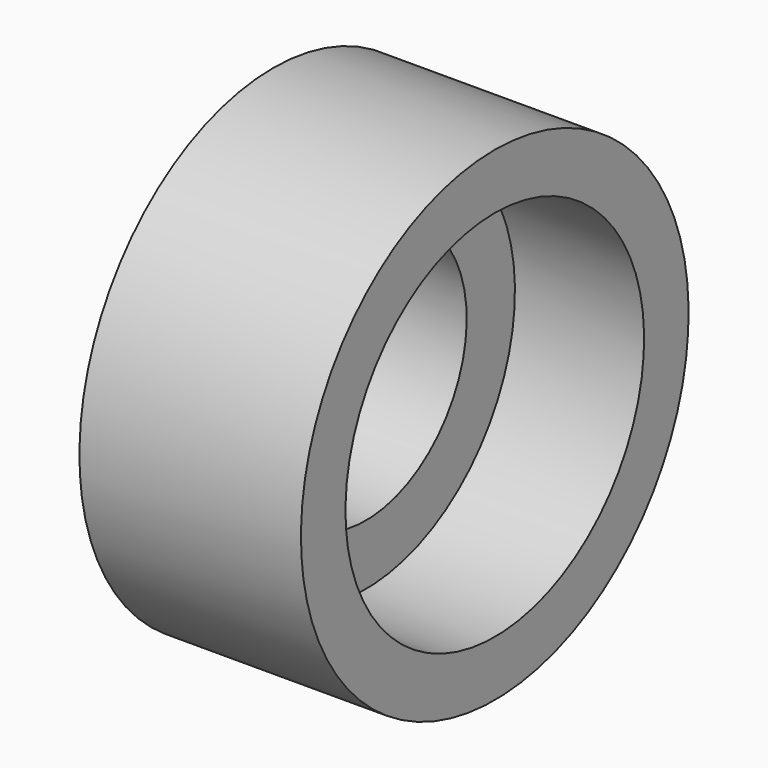
from build123d import *


with BuildPart() as f1:
    # F0 (on Front) → F1 (revolve)
    with BuildSketch(Plane.XZ):
        Polygon((-31.078264, 43.641821), (-31.078264, 29.535374), (-9.477769, 29.535374), (-9.477769, 43.641821), (20.718845, 43.641821), (20.718845, 56.646198), (-31.078264, 56.646198), align=None)
        Polygon((-31.078264, 43.641821), (-31.078264, 29.535374), (-9.477769, 29.535374), (-9.477769, 43.641821), (20.718845, 43.641821), (20.718845, 56.646198), (-31.078264, 56.646198), align=None)
    revolve(axis=Axis((-56.866612, 0, 0), (-1, 0, 0)))


solid = f1.part
